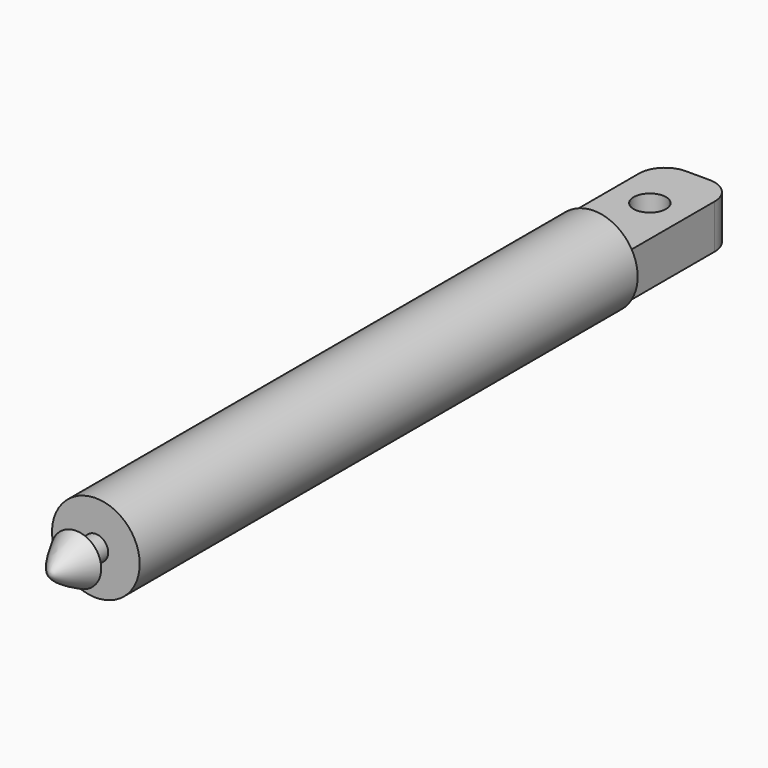
from build123d import *

# Parameters (mm, degrees)
F0_R      = 4.2926
F1_DEPTH  = 60.96
F2_R      = 1.2065
F3_DEPTH  = 2.413
F6_W      = 7.414472
F6_H      = 4.327964
F7_DEPTH  = 12.7
F8_R      = 2.54
F9_R      = 1.5875
F10_DEPTH = 6.457582


with BuildPart() as f1:
    # F0 (on Front) → F1 (new body)
    with BuildSketch(Plane.XZ):
        Circle(F0_R)
    extrude(amount=-F1_DEPTH)

    # F2 (on Front) → F3 (join)
    with BuildSketch(Plane.XZ):
        Circle(F2_R)
    extrude(amount=F3_DEPTH)

    # F4 (on Right) → F5 (revolve)
    with BuildSketch(Plane.YZ):
        with BuildLine():
            Line((-5.588, 0), (-2.413, 0))
            Line((-2.413, 0), (-2.413, 2.45745))
            add(Edge.make_bspline(
                [(-2.413, 2.45745), (-3.605465, 1.903019), (-5.753043, 0.65037), (-5.588, 0)],
                knots=[0, 0, 0, 0, 4.014933, 4.014933, 4.014933, 4.014933], degree=3))
        make_face()
    revolve(axis=Axis((0, -4.0005, 0), (0, 1, 0)))

    # F6 (on face) → F7 (join)
    with BuildSketch(Plane(origin=(0, 60.96, 0), x_dir=(-1, 0, 0), z_dir=(0, 1, 0))):
        Rectangle(F6_W, F6_H)
    extrude(amount=F7_DEPTH)

    # F8
    f8_edges = [f1.edges().sort_by_distance(p)[0] for p in [
        (-3.707236, 73.66, 0),
        (3.707236, 73.66, 0),
    ]]
    fillet(f8_edges, radius=F8_R)

    # F9 (on face) → F10 (cut, through all)
    with BuildSketch(Plane.XY.offset(2.163982)):
        with Locations((0, 67.818)):
            Circle(F9_R)
    extrude(amount=-F10_DEPTH, mode=Mode.SUBTRACT)


solid = f1.part
